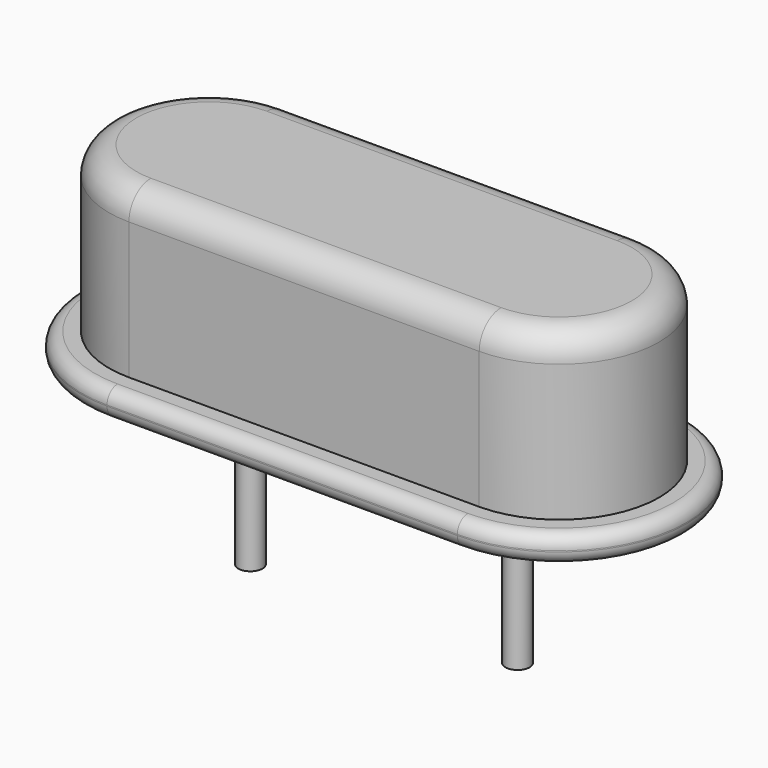
from build123d import *

# Parameters (mm, degrees)
PAD_DEPTH    = 0.5
FILLET_R     = 0.24
PAD001_DEPTH = 3
FILLET001_R  = 0.5
SKETCH002_R  = 0.8
POCKET_DEPTH = 0.5
SKETCH003_R  = 0.7
PAD002_DEPTH = 0.5
SKETCH004_R  = 0.22
PAD003_DEPTH = 3


with BuildPart() as part:
    # Sketch → Pad (new body)
    with BuildSketch(Plane.XY):
        with BuildLine():
            Line((-3.2, 2.325), (3.2, 2.325))
            ThreePointArc((3.2, -2.325), (5.525, 0), (3.2, 2.325))
            Line((-3.2, -2.325), (3.2, -2.325))
            ThreePointArc((-3.2, 2.325), (-5.525, 0), (-3.2, -2.325))
        make_face()
    extrude(amount=PAD_DEPTH)

    # Fillet
    fillet_edges = [part.edges().sort_by_distance(p)[0] for p in [
        (0, -2.325, 0.5),
        (-5.525, 0, 0.5),
        (0, 2.325, 0.5),
        (5.525, 0, 0.5),
        (5.525, 0, 0),
        (0, -2.325, 0),
        (-5.525, 0, 0),
        (0, 2.325, 0),
    ]]
    fillet(fillet_edges, radius=FILLET_R)

    # Sketch001 (on DatumPlane) → Pad001 (join)
    with BuildSketch(Plane.XY.offset(0.5)):
        with BuildLine():
            Line((-3.2, 1.825), (3.2, 1.825))
            ThreePointArc((3.2, -1.825), (5.025, 0), (3.2, 1.825))
            Line((-3.2, -1.825), (3.2, -1.825))
            ThreePointArc((-3.2, 1.825), (-5.025, 0), (-3.2, -1.825))
        make_face()
    extrude(amount=PAD001_DEPTH)

    # Fillet001
    fillet001_edges = [part.edges().sort_by_distance(p)[0] for p in [
        (0, -1.825, 3.5),
        (-5.025, 0, 3.5),
        (0, 1.825, 3.5),
        (5.025, 0, 3.5),
    ]]
    fillet(fillet001_edges, radius=FILLET001_R)

    # Sketch002 (on DatumPlane) → Pocket (cut)
    with BuildSketch(Plane.XY.offset(0.5)):
        with Locations((-2.44, 0)):
            Circle(SKETCH002_R)
        with Locations((2.44, 0)):
            Circle(SKETCH002_R)
    extrude(amount=-POCKET_DEPTH, mode=Mode.SUBTRACT)

    # Sketch003 (on DatumPlane) → Pad002 (join)
    with BuildSketch(Plane.XY.offset(0.5)):
        with Locations((2.44, 0)):
            Circle(SKETCH003_R)
        with Locations((-2.44, 0)):
            Circle(SKETCH003_R)
    extrude(amount=-PAD002_DEPTH)

    # Sketch004 → Pad003 (join)
    with BuildSketch(Plane.XY):
        with Locations((2.44, 0)):
            Circle(SKETCH004_R)
        with Locations((-2.44, 0)):
            Circle(SKETCH004_R)
    extrude(amount=-PAD003_DEPTH)


solid = part.part
